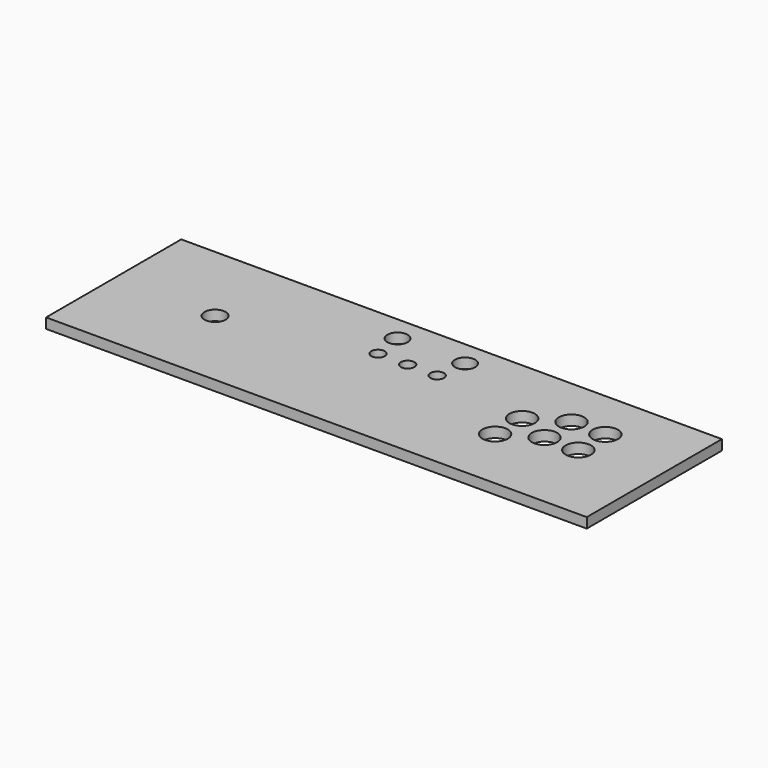
from build123d import *

# Parameters (mm, degrees)
F0_W     = 640
F0_H     = 200
F0_R     = 15
F0_R_2   = 12.5
F0_R_3   = 8
F0_R_4   = 12
F1_DEPTH = 12


with BuildPart() as f1:
    # F0 (on Top) → F1 (new body)
    with BuildSketch(Plane.XY):
        Rectangle(F0_W, F0_H)
        with Locations((150, -23.094011)):
            Circle(F0_R, mode=Mode.SUBTRACT)
        with Locations((-200, 0)):
            Circle(F0_R_2, mode=Mode.SUBTRACT)
        with Locations((-35, 35)):
            Circle(F0_R_3, mode=Mode.SUBTRACT)
        with Locations((-40, 70)):
            Circle(F0_R_4, mode=Mode.SUBTRACT)
        with Locations((150, 16.905989)):
            Circle(F0_R, mode=Mode.SUBTRACT)
        with Locations((0, 35)):
            Circle(F0_R_3, mode=Mode.SUBTRACT)
        with Locations((35, 35)):
            Circle(F0_R_3, mode=Mode.SUBTRACT)
        with Locations((190, 0)):
            Circle(F0_R, mode=Mode.SUBTRACT)
        with Locations((230, 0)):
            Circle(F0_R, mode=Mode.SUBTRACT)
        with Locations((190, 40)):
            Circle(F0_R, mode=Mode.SUBTRACT)
        with Locations((230, 40)):
            Circle(F0_R, mode=Mode.SUBTRACT)
        with Locations((40, 70)):
            Circle(F0_R_4, mode=Mode.SUBTRACT)
    extrude(amount=F1_DEPTH)


solid = f1.part
